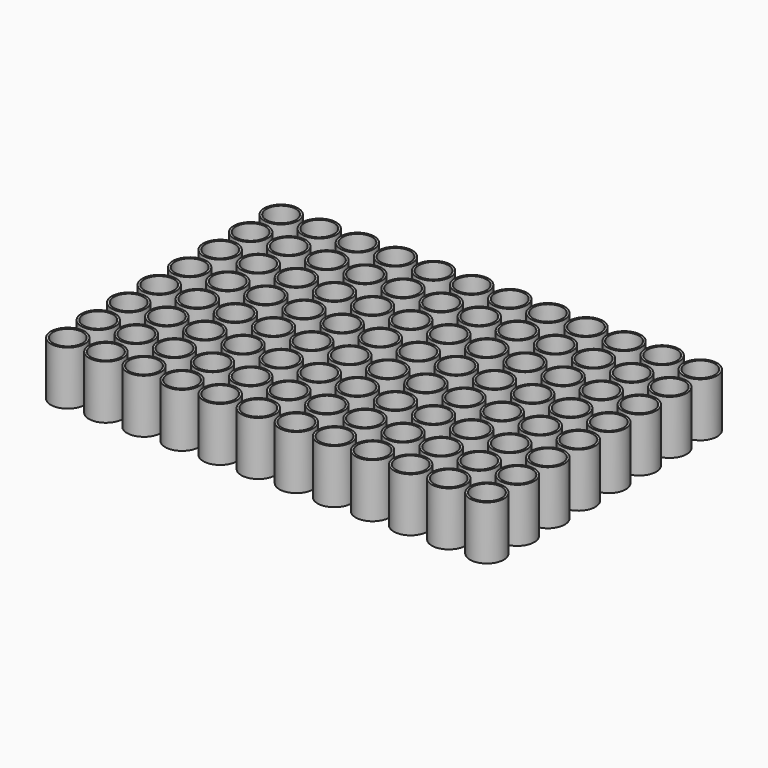
from build123d import *

# Parameters (mm, degrees)
SKETCH017_R       = 3.4
SKETCH016_R       = 3.5
ARRAY008_X_COUNT  = 12
ARRAY008_X_PITCH  = 9
ARRAY008_Y_COUNT  = 8
ARRAY008_Y_PITCH  = 9
CYLINDER002_R     = 4
CYLINDER002_DEPTH = 12.7
ARRAY009_X_COUNT  = 12
ARRAY009_X_PITCH  = 9
ARRAY009_Y_COUNT  = 8
ARRAY009_Y_PITCH  = 9


with BuildPart() as obj1:
    # Sketch017 → AdditiveLoft005 section 0
    with BuildSketch(Plane.XY):
        Circle(SKETCH017_R)
    # Sketch016 → AdditiveLoft005 section 1
    with BuildSketch(Plane.XY.offset(11.3)):
        Circle(SKETCH016_R)
    loft()

    # Array008 X: obj1 ×12


with BuildPart() as obj1_1:
    add(obj1.part)
    with Locations(*[(i * ARRAY008_X_PITCH, 0, 0) for i in range(1, ARRAY008_X_COUNT)]):
        add(obj1.part)

    # Array008 Y: obj1 ×8


with BuildPart() as obj1_2:
    add(obj1_1.part)
    with Locations(*[(0, i * ARRAY008_Y_PITCH, 0) for i in range(1, ARRAY008_Y_COUNT)]):
        add(obj1_1.part)


with BuildPart() as obj2:
    # Cylinder002 → Cylinder002 (new body)
    with BuildSketch(Plane.XY.offset(-1.4)):
        Circle(CYLINDER002_R)
    extrude(amount=CYLINDER002_DEPTH)

    # Array009 X: obj2 ×12


with BuildPart() as obj2_1:
    add(obj2.part)
    with Locations(*[(i * ARRAY009_X_PITCH, 0, 0) for i in range(1, ARRAY009_X_COUNT)]):
        add(obj2.part)

    # Array009 Y: obj2 ×8


with BuildPart() as obj2_2:
    add(obj2_1.part)
    with Locations(*[(0, i * ARRAY009_Y_PITCH, 0) for i in range(1, ARRAY009_Y_COUNT)]):
        add(obj2_1.part)

    # Cut003: cut obj1
    add(obj1_2.part, mode=Mode.SUBTRACT)


with BuildPart() as obj2_3:
    # Cut003 placement: moved
    add(obj2_2.part.moved(Location((1, -31, -140))))


solid = obj2_3.part
